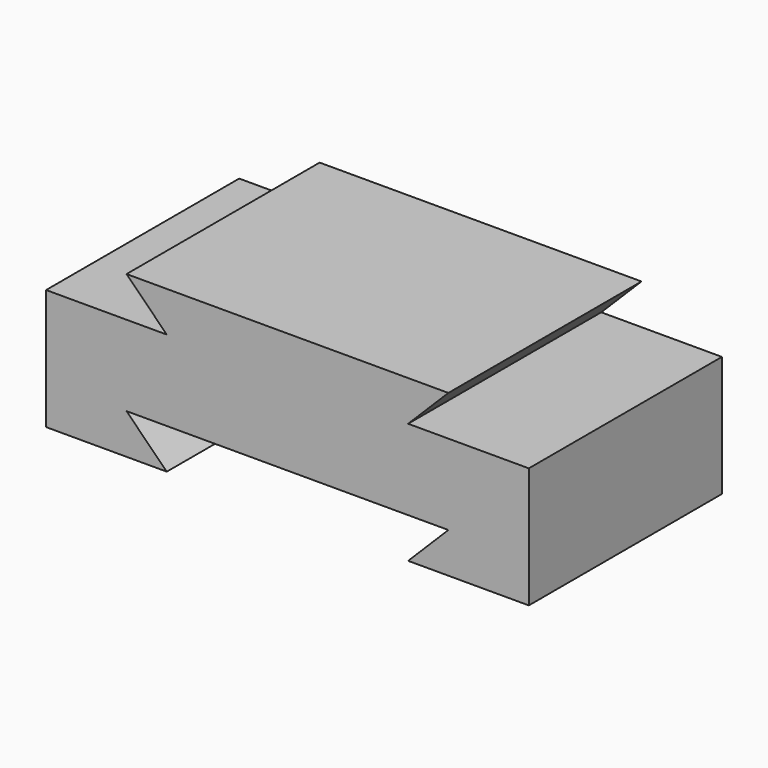
from build123d import *

# Parameters (mm, degrees)
F0_W     = 152.4
F0_H     = 50.8
F1_DEPTH = 76.2
F3_DEPTH = 76.2
F5_DEPTH = 76.2
F7_DEPTH = 76.2


with BuildPart() as f1:
    # F0 (on Front) → F1 (new body)
    with BuildSketch(Plane.XZ):
        with Locations((76.2, 25.4)):
            Rectangle(F0_W, F0_H)
    extrude(amount=F1_DEPTH)

    # F2 (on face) → F3 (cut)
    with BuildSketch(Plane.XZ.offset(76.2)):
        Polygon((152.4, 38.1), (152.4, 50.8), (127, 50.8), (114.3, 38.1), align=None)
    extrude(amount=-F3_DEPTH, mode=Mode.SUBTRACT)

    # F4 (on face) → F5 (cut)
    with BuildSketch(Plane.XZ.offset(76.2)):
        Polygon((25.4, 50.8), (0, 50.8), (0, 38.1), (38.1, 38.1), align=None)
    extrude(amount=-F5_DEPTH, mode=Mode.SUBTRACT)

    # F6 (on face) → F7 (cut)
    with BuildSketch(Plane.XZ.offset(76.2)):
        Polygon((127, 12.7), (25.4, 12.7), (38.1, 0), (114.3, 0), align=None)
    extrude(amount=-F7_DEPTH, mode=Mode.SUBTRACT)


solid = f1.part
